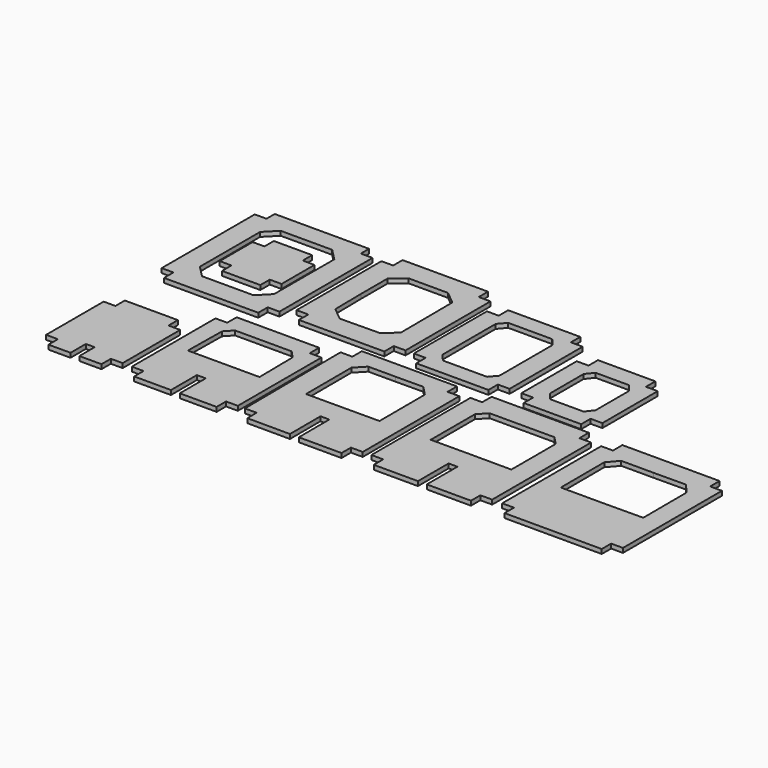
from build123d import *

# Parameters (mm, degrees)
F1_DEPTH = 1.5
F0_R     = 3.5


with BuildPart() as f1:
    # F0 (on Top) → F1 (new body)
    with BuildSketch(Plane.XY):
        Polygon((-123.2983495652, 77.7863922698), (-155.2983495652, 77.7863922698), (-155.2983495652, 74.2863922698), (-159.2983495652, 74.2863922698), (-159.2983495652, 34.7863922698), (-155.2983495652, 34.7863922698), (-155.2983495652, 30.7863922698), (-123.2983495652, 30.7863922698), (-123.2983495652, 34.7863922698), (-119.2983495652, 34.7863922698), (-119.2983495652, 74.2863922698), (-123.2983495652, 74.2863922698), align=None)
        Polygon((-148.0486843239, 71.2288411243), (-139.2983495652, 71.2288411243), (-130.5480148065, 71.2288411243), (-126.7021554875, 67.3104168755), (-126.7021554875, 54.5363922699), (-126.7021554875, 41.7623676642), (-130.5480148065, 37.8439434154), (-139.2983495652, 37.8439434154), (-148.0486843239, 37.8439434154), (-151.8945436429, 41.7623676642), (-151.8945436429, 54.5363922699), (-151.8945436429, 67.3104168755), align=None, mode=Mode.SUBTRACT)
    extrude(amount=F1_DEPTH)


with BuildPart() as f1b:
    # F0 (on Top) → F1, piece 2 (new body)
    with BuildSketch(Plane.XY):
        Polygon((-145.7983495652, 61.5363922699), (-149.7983495652, 61.5363922699), (-149.7983495652, 47.5363922699), (-145.7983495652, 47.5363922699), (-145.7983495652, 43.5363922699), (-132.7983495652, 43.5363922699), (-132.7983495652, 47.5363922699), (-128.7983495652, 47.5363922699), (-128.7983495652, 61.5363922699), (-132.7983495652, 61.5363922699), (-132.7983495652, 65.5363922699), (-133.0497326124, 65.5363922699), (-145.7983495652, 65.5363922699), align=None)
    extrude(amount=F1_DEPTH)


with BuildPart() as f1c:
    # F0 (on Top) → F1, piece 3 (new body)
    with BuildSketch(Plane.XY):
        Polygon((-112.2967351197, 34.2863922698), (-83.2967351197, 34.2863922698), (-83.2967351197, 38.2863922698), (-79.2967351197, 38.2863922698), (-79.2967351197, 38.7491493804), (-79.2967351197, 74.331907131), (-83.2967351197, 74.3273558285), (-83.2967351197, 78.2863922698), (-112.2967351197, 78.2863922698), (-112.2967351197, 74.294358886), (-116.2967351197, 74.2898075836), (-116.2967351197, 38.2863922698), (-112.2967351197, 38.2863922698), align=None)
        Polygon((-104.4899033963, 71.1043238027), (-97.7967351197, 71.1043238027), (-91.103566843, 71.1043238027), (-86.8034940538, 67.5289838893), (-86.727668837, 56.489488589), (-86.6518436202, 45.4499932888), (-90.9023982863, 41.8159230473), (-97.5949350676, 41.7239827946), (-104.2874718489, 41.6320425418), (-108.6362513441, 45.147977466), (-108.7899761855, 56.337952745), (-108.7899761855, 67.5289838893), align=None, mode=Mode.SUBTRACT)
    extrude(amount=F1_DEPTH)


with BuildPart() as f1d:
    # F0 (on Top) → F1, piece 4 (new body)
    with BuildSketch(Plane.XY):
        Polygon((-76.4672788441, 69.2863922698), (-76.4672788441, 38.2863922698), (-72.4672788441, 38.2863922698), (-72.4672788441, 34.2863922698), (-47.9672788441, 34.2863922698), (-47.9672788441, 38.2863922698), (-43.9672788441, 38.2863922698), (-43.9672788441, 69.2863922698), (-47.9672788441, 69.2863922698), (-47.9672788441, 73.2863922698), (-48.4486776054, 73.2863922698), (-72.4672788441, 73.2863922698), (-72.4672788441, 69.2863922698), align=None)
        Polygon((-67.9401564061, 67.6364212615), (-60.4579782247, 67.6364212615), (-52.9758000433, 67.6364212615), (-50.789784795, 65.0990813358), (-50.789784795, 53.7863922698), (-50.789784795, 42.4737032039), (-52.9758000433, 39.9363632781), (-60.4579782247, 39.9363632781), (-67.9401564061, 39.9363632781), (-70.1261716544, 42.4737032039), (-70.1261716544, 53.7863922698), (-70.1261716544, 65.0990813358), align=None, mode=Mode.SUBTRACT)
    extrude(amount=F1_DEPTH)


with BuildPart() as f1e:
    # F0 (on Top) → F1, piece 5 (new body)
    with BuildSketch(Plane.XY):
        Polygon((-35.9772333562, 38.2863922698), (-35.9772333562, 34.2863922698), (-16.4772333562, 34.2863922698), (-16.4772333562, 38.2863922698), (-12.4772333562, 38.2863922698), (-12.4772333562, 61.7863922698), (-16.4772333562, 61.7863922698), (-16.4772333562, 65.7863922698), (-35.9772333562, 65.7863922698), (-35.9772333562, 61.7863922698), (-39.9772333562, 61.7863922698), (-39.9772333562, 61.567804156), (-39.9772333562, 38.2863922698), align=None)
        Polygon((-31.9351362645, 59.7223102433), (-26.2272333562, 59.7223102433), (-20.5193304479, 59.7223102433), (-18.4918486535, 57.1874588115), (-18.4918486535, 50.0363922698), (-18.4918486535, 42.8853257281), (-20.5193304479, 40.3504742963), (-26.2272333562, 40.3504742963), (-31.9351362645, 40.3504742963), (-33.9626180589, 42.8853257281), (-33.9626180589, 50.0363922698), (-33.9626180589, 57.1874588115), align=None, mode=Mode.SUBTRACT)
    extrude(amount=F1_DEPTH)


with BuildPart() as f1f:
    # F0 (on Top) → F1, piece 6 (new body)
    with BuildSketch(Plane.XY):
        Polygon((-126.1418202579, 21.1692565067), (-130.1418202579, 21.1692565067), (-130.1418202579, -14.3307434933), (-126.1418202579, -14.3307434933), (-126.1418202579, -18.3307434933), (-113.6418202579, -18.3307434933), (-113.6418202579, -7.3307434933), (-110.6418202579, -7.3307434933), (-110.6418202579, -18.3307434933), (-98.1418202579, -18.3307434933), (-98.1418202579, -14.3307434933), (-94.1418202579, -14.3307434933), (-94.1418202579, 21.1692565067), (-98.1418202579, 21.1692565067), (-98.1418202579, 25.1692565067), (-126.1418202579, 25.1692565067), align=None)
        Polygon((-99.9751495778, 2.1641164405), (-112.1418202579, 2.1641164405), (-124.3084909379, 2.1641164405), (-124.1175847113, 16.4646714313), (-121.7482777297, 18.9955144508), (-112.1418202579, 18.9955144508), (-102.535362786, 18.9955144508), (-100.1660558045, 16.4646714313), align=None, mode=Mode.SUBTRACT)
    extrude(amount=F1_DEPTH)


with BuildPart() as f1g:
    # F0 (on Top) → F1, piece 7 (new body)
    with BuildSketch(Plane.XY):
        Polygon((-55.7397124802, -14.3307434933), (-51.7397124802, -14.3307434933), (-51.7397124802, 26.6692565067), (-55.7397124802, 26.6692565067), (-55.7397124802, 30.6692565067), (-88.0725003427, 30.6964147105), (-88.0451571166, 26.6692565067), (-92.0724081456, 26.6692565067), (-91.7397124802, -14.3307434933), (-87.7667791108, -14.3307434933), (-87.7398046772, -18.3035852895), (-73.2397038365, -18.3358357446), (-73.2838542224, -5.3307434933), (-70.2838369349, -5.3307434933), (-70.2397211239, -18.3256512421), (-55.7397124802, -18.3307434933), align=None)
        Polygon((-84.2536160206, 2.2354108802), (-84.3192293256, 21.5626957133), (-81.1899113118, 24.8494654281), (-71.8863029734, 24.8494654281), (-62.5829090814, 24.912633479), (-59.43134725, 21.6471864326), (-59.365733945, 2.3199015995), align=None, mode=Mode.SUBTRACT)
    extrude(amount=F1_DEPTH)


with BuildPart() as f1h:
    # F0 (on Top) → F1, piece 8 (new body)
    with BuildSketch(Plane.XY):
        Polygon((-29.8458233535, -5.259448232), (-26.8460653877, -5.259448232), (-26.8460653877, -18.259448232), (-11.8460653877, -18.259448232), (-11.8460653877, -14.259448232), (-7.8460653877, -14.259448232), (-7.8460653877, 27.740551768), (-11.8460653877, 27.740551768), (-11.8460653877, 31.740551768), (-44.8460653877, 31.740551768), (-44.8460653877, 27.740551768), (-48.8460653877, 27.740551768), (-48.8460653877, -14.2594490536), (-44.8460653877, -14.2594490536), (-44.8460653877, -18.259448232), (-29.8458233535, -18.259448232), align=None)
        Polygon((-14.6582404007, 2.3787406733), (-28.3460653877, 2.425208837), (-42.0338903746, 2.3787406733), (-42.0338903746, 21.195901703), (-39.3472158765, 24.0361375324), (-28.3460653877, 24.0361375324), (-17.3449148988, 24.0361375324), (-14.6582404007, 21.195901703), align=None, mode=Mode.SUBTRACT)
    extrude(amount=F1_DEPTH)


with BuildPart() as f1i:
    # F0 (on Top) → F1, piece 9 (new body)
    with BuildSketch(Plane.XY):
        Polygon((32.5521268189, -14.259448232), (36.5521268189, -14.259448232), (36.5521268189, 27.740551768), (32.5521268189, 27.740551768), (32.5521268189, 31.740551768), (-0.4478731811, 31.740551768), (-0.4478731811, 27.740551768), (-4.4478731811, 27.740551768), (-4.4478731811, -14.259448232), (-0.4478731811, -14.259448232), (-0.4478731811, -18.259448232), (32.5521268189, -18.259448232), align=None)
        Polygon((15.9795885515, 2.5283238279), (2.0278473427, 2.5283238279), (1.9649911504, 21.0434638938), (4.9458097551, 24.4967034442), (15.9029305917, 24.4967034442), (26.8597845952, 24.5731715603), (29.8646302546, 21.1408187944), (29.9309900008, 2.625690954), align=None, mode=Mode.SUBTRACT)
    extrude(amount=F1_DEPTH)


with BuildPart() as f1j:
    # F0 (on Top) → F1, piece 10 (new body)
    with BuildSketch(Plane.XY):
        Polygon((-155.2983495652, 10.1692565067), (-159.2983495652, 10.1692565067), (-159.2983495652, -14.259448232), (-155.2983495652, -14.259448232), (-155.2983495652, -18.259448232), (-147.7983495652, -18.259448232), (-147.7983495652, -11.759448232), (-144.7983495652, -11.759448232), (-144.7983495652, -18.259448232), (-137.2983495652, -18.259448232), (-137.2983495652, -14.259448232), (-133.2983495652, -14.259448232), (-133.2983495652, 10.1692565067), (-137.2983495652, 10.1692565067), (-137.2983495652, 14.1692565067), (-155.2983495652, 14.1692565067), align=None)
        with BuildLine():
            ThreePointArc((-141.0515366715, 4.577341371), (-140.1195841623, 2.7586840965), (-139.7983495652, 0.740551768))
            ThreePointArc((-139.7983495652, 0.740551768), (-140.1195841623, -1.2775805604), (-141.0515366715, -3.096237835))
            ThreePointArc((-141.0515366715, -3.096237835), (-140.7936900737, -3.4376822733), (-140.7021554875, -3.8556423097))
            ThreePointArc((-140.7021554875, -3.8556423097), (-141.3553158089, -4.7935667402), (-142.4615599622, -4.5062611257))
            ThreePointArc((-142.4615599622, -4.5062611257), (-146.2983495652, -5.759448232), (-150.1351391682, -4.5062611257))
            ThreePointArc((-150.1351391682, -4.5062611257), (-151.6016504241, -4.5627490909), (-151.545162459, -3.096237835))
            ThreePointArc((-151.545162459, -3.096237835), (-152.7983495652, 0.740551768), (-151.545162459, 4.577341371))
            ThreePointArc((-151.545162459, 4.577341371), (-151.6016504241, 6.0438526269), (-150.1351391682, 5.9873646618))
            ThreePointArc((-150.1351391682, 5.9873646618), (-146.2983495652, 7.240551768), (-142.4615599622, 5.9873646618))
            ThreePointArc((-142.4615599622, 5.9873646618), (-141.3553158089, 6.2746702763), (-140.7021554875, 5.3367458457))
            ThreePointArc((-140.7021554875, 5.3367458457), (-140.7936900737, 4.9187858094), (-141.0515366715, 4.577341371))
        make_face(mode=Mode.SUBTRACT)
        with BuildLine():
            ThreePointArc((-141.0515366715, -3.096237835), (-140.1195841623, -1.2775805604), (-139.7983495652, 0.740551768))
            ThreePointArc((-139.7983495652, 0.740551768), (-140.1195841623, 2.7586840965), (-141.0515366715, 4.577341371))
            ThreePointArc((-141.0515366715, 4.577341371), (-142.4092622687, 4.6296390646), (-142.4615599622, 5.9873646618))
            ThreePointArc((-142.4615599622, 5.9873646618), (-146.2983495652, 7.240551768), (-150.1351391682, 5.9873646618))
            ThreePointArc((-150.1351391682, 5.9873646618), (-149.9566192124, 5.6835855243), (-149.8945436429, 5.3367458457))
            ThreePointArc((-149.8945436429, 5.3367458457), (-150.4765836066, 4.428280432), (-151.545162459, 4.577341371))
            ThreePointArc((-151.545162459, 4.577341371), (-152.7983495652, 0.740551768), (-151.545162459, -3.096237835))
            ThreePointArc((-151.545162459, -3.096237835), (-150.4765836066, -2.9471768959), (-149.8945436429, -3.8556423097))
            ThreePointArc((-149.8945436429, -3.8556423097), (-149.9566192124, -4.2024819883), (-150.1351391682, -4.5062611257))
            ThreePointArc((-150.1351391682, -4.5062611257), (-146.2983495652, -5.759448232), (-142.4615599622, -4.5062611257))
            ThreePointArc((-142.4615599622, -4.5062611257), (-142.4092622687, -3.1485355285), (-141.0515366715, -3.096237835))
        make_face()
        with Locations((-146.2983495652, 0.740551768)):
            Circle(F0_R, mode=Mode.SUBTRACT)
        with Locations((-146.2983495652, 0.740551768)):
            Circle(F0_R)
        with BuildLine():
            ThreePointArc((-142.4615599622, 5.9873646618), (-142.4092622687, 4.6296390646), (-141.0515366715, 4.577341371))
            ThreePointArc((-141.0515366715, 4.577341371), (-141.7021554875, 5.3367458457), (-142.4615599622, 5.9873646618))
        make_face()
        with BuildLine():
            ThreePointArc((-142.4615599622, 5.9873646618), (-141.7021554875, 5.3367458457), (-141.0515366715, 4.577341371))
            ThreePointArc((-141.0515366715, 4.577341371), (-140.7936900737, 4.9187858094), (-140.7021554875, 5.3367458457))
            ThreePointArc((-140.7021554875, 5.3367458457), (-141.3553158089, 6.2746702763), (-142.4615599622, 5.9873646618))
        make_face()
        with BuildLine():
            ThreePointArc((-151.545162459, -3.096237835), (-151.6016504241, -4.5627490909), (-150.1351391682, -4.5062611257))
            ThreePointArc((-150.1351391682, -4.5062611257), (-150.8945436429, -3.8556423097), (-151.545162459, -3.096237835))
        make_face()
        with BuildLine():
            ThreePointArc((-151.545162459, -3.096237835), (-150.8945436429, -3.8556423097), (-150.1351391682, -4.5062611257))
            ThreePointArc((-150.1351391682, -4.5062611257), (-149.9566192124, -4.2024819883), (-149.8945436429, -3.8556423097))
            ThreePointArc((-149.8945436429, -3.8556423097), (-150.4765836066, -2.9471768959), (-151.545162459, -3.096237835))
        make_face()
        with BuildLine():
            ThreePointArc((-142.4615599622, -4.5062611257), (-141.7021554875, -3.8556423097), (-141.0515366715, -3.096237835))
            ThreePointArc((-141.0515366715, -3.096237835), (-142.4092622687, -3.1485355285), (-142.4615599622, -4.5062611257))
        make_face()
        with BuildLine():
            ThreePointArc((-140.7021554875, -3.8556423097), (-140.7936900737, -3.4376822733), (-141.0515366715, -3.096237835))
            ThreePointArc((-141.0515366715, -3.096237835), (-141.7021554875, -3.8556423097), (-142.4615599622, -4.5062611257))
            ThreePointArc((-142.4615599622, -4.5062611257), (-141.3553158089, -4.7935667402), (-140.7021554875, -3.8556423097))
        make_face()
        with BuildLine():
            ThreePointArc((-151.545162459, 4.577341371), (-150.8945436429, 5.3367458457), (-150.1351391682, 5.9873646618))
            ThreePointArc((-150.1351391682, 5.9873646618), (-151.6016504241, 6.0438526269), (-151.545162459, 4.577341371))
        make_face()
        with BuildLine():
            ThreePointArc((-149.8945436429, 5.3367458457), (-149.9566192124, 5.6835855243), (-150.1351391682, 5.9873646618))
            ThreePointArc((-150.1351391682, 5.9873646618), (-150.8945436429, 5.3367458457), (-151.545162459, 4.577341371))
            ThreePointArc((-151.545162459, 4.577341371), (-150.4765836066, 4.428280432), (-149.8945436429, 5.3367458457))
        make_face()
    extrude(amount=F1_DEPTH)


solid = Compound([f1.part, f1b.part, f1c.part, f1d.part, f1e.part, f1f.part, f1g.part, f1h.part, f1i.part, f1j.part])
